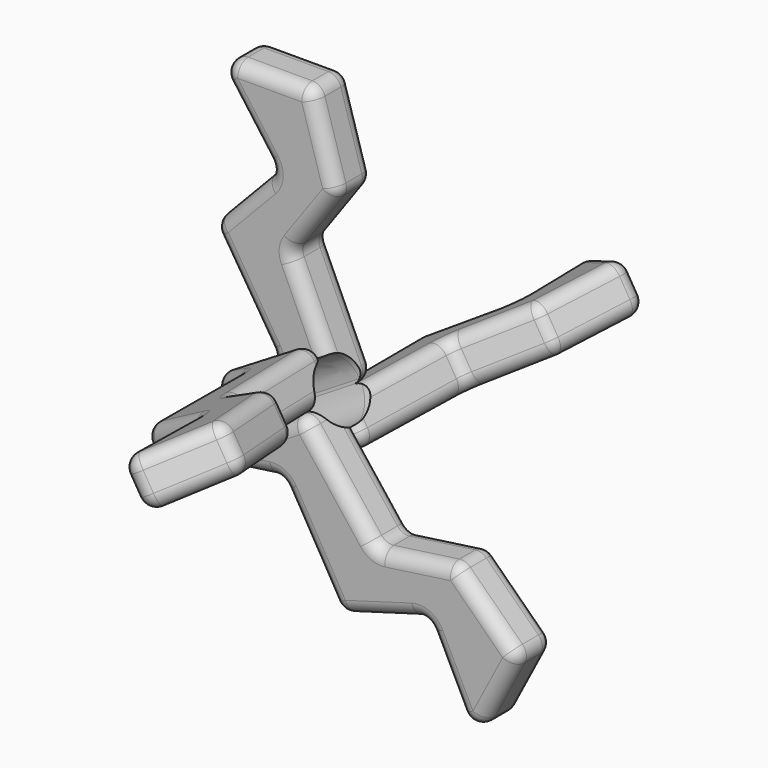
from build123d import *

# Parameters (mm, degrees)
F1_DEPTH      = 7
F2_COUNT      = 4
F3_R          = 2
F3_2_R        = 2
F3_3_R        = 2
F3_4_R        = 2
F5_DEPTH      = 25
F5_TAPER      = -3
F5_DEPTH_BACK = 25


with BuildPart() as f1:
    # F0 (on Front) → F1 (new body)
    with BuildSketch(Plane.XZ):
        Polygon((-32.9818986356, 12.8905009478), (-48.0949021876, 12.8905009478), (-38.6715009809, 0), (-48.0949021876, -9.8679000512), (-38.6715009809, -24.8031001538), (-48.0949021876, -37.9603020847), (-28.7146996707, -26.2254998088), (-36.1822992563, -9.8679000512), (-29.1147493518, 0), align=None)
    extrude(amount=F1_DEPTH)


with BuildPart() as f2_1:
    # F2: instance of F1
    add(f1.part.rotate(Axis((-38.4048009291, -7, -32.0929009467), (0.8554085664, 0, 0.517953844)), 1 * 360 / F2_COUNT))

    # F3#2
    f3_2_edges = [f2_1.edges().sort_by_distance(p)[0] for p in [
        (-30.527538, -7, -23.23157),
        (-28.744325, -24.860303, -22.151826),
        (-31.44877, -15.930151, -19.697768),
        (-27.823093, -15.930151, -25.685628),
        (-19.200738, -29.640724, -16.37314),
        (-16.31913, -42.670374, -14.628313),
        (-19.572772, -36.155549, -12.506796),
        (-15.947095, -36.155549, -18.494656),
        (-27.377674, -50.498213, -21.324313),
        (-23.66124, -46.584293, -14.982383),
        (-20.035563, -46.584293, -20.970243),
        (-38.404801, -7, -32.092901),
        (-24.972819, -42.544447, -23.959774),
        (-28.598496, -42.544447, -17.971914),
        (-33.640189, -32.810581, -21.024682),
        (-39.134846, -22.202189, -24.351723),
        (-45.358186, -10.186948, -28.119984),
        (-42.030478, -7, -26.105041),
        (-25.78537, -27.250514, -16.268553),
        (-30.014512, -32.810581, -27.012542),
        (-35.509169, -22.202189, -30.339583),
        (-41.73251, -10.186948, -34.107844),
        (-22.159693, -27.250514, -22.256413),
        (-37.46106, -31.030481, -27.42985),
        (-26.19364, -34.590681, -20.607375),
        (-37.182955, -13.373896, -27.261456),
        (-49.907741, -7, -34.966372),
    ]]
    fillet(f3_2_edges, radius=F3_2_R)


with BuildPart() as f2_2:
    # F2: instance of F1
    add(f1.part.rotate(Axis((-38.4048009291, -7, -32.0929009467), (0.8554085664, 0, 0.517953844)), 2 * 360 / F2_COUNT))

    # F3#3
    f3_3_edges = [f2_2.edges().sort_by_distance(p)[0] for p in [
        (-5.661049, -10.5, -38.734139),
        (3.969316, -10.5, -48.134986),
        (-0.845866, -14, -43.434563),
        (-0.845866, -7, -43.434563),
        (-3.034769, -10.5, -61.526986),
        (0.467273, -14, -54.830986),
        (0.467273, -7, -54.830986),
        (-28.7147, -10.5, -26.2255),
        (-17.680674, -10.5, -40.423612),
        (-23.197687, -14, -33.324556),
        (-23.197687, -7, -33.324556),
        (-6.562436, -7, -54.364798),
        (-16.645822, -7, -49.091134),
        (-27.635137, -7, -43.343665),
        (-40.081817, -7, -36.833987),
        (-38.404801, -7, -32.092901),
        (-11.670862, -7, -39.578876),
        (-48.094902, -10.5, -37.960302),
        (-23.201542, -10.5, -50.979659),
        (-40.081817, -14, -36.833987),
        (-16.645822, -14, -49.091134),
        (-27.635137, -14, -43.343665),
        (-38.404801, -14, -32.092901),
        (-32.068733, -10.5, -35.707671),
        (-10.090103, -10.5, -47.202609),
        (-11.670862, -14, -39.578876),
        (-6.562436, -14, -54.364798),
    ]]
    fillet(f3_3_edges, radius=F3_3_R)


with BuildPart() as f2_3:
    # F2: instance of F1
    add(f1.part.rotate(Axis((-38.4048009291, -7, -32.0929009467), (0.8554085664, 0, 0.517953844)), 3 * 360 / F2_COUNT))

    # F3#4
    f3_4_edges = [f2_3.edges().sort_by_distance(p)[0] for p in [
        (-26.901861, -7, -29.21943),
        (-25.118648, 10.860303, -28.139686),
        (-24.197416, 1.930151, -31.673488),
        (-27.823093, 1.930151, -25.685628),
        (-15.575061, 15.640724, -22.361),
        (-18.534016, 13.250514, -28.244273),
        (-22.159693, 13.250514, -22.256413),
        (-12.693453, 28.670374, -20.616173),
        (-12.321418, 22.155549, -24.482516),
        (-15.947095, 22.155549, -18.494656),
        (-23.751997, 36.498213, -27.312173),
        (-38.404801, -7, -32.092901),
        (-16.409887, 32.584293, -26.958103),
        (-21.347142, 28.544447, -29.947634),
        (-26.388835, 18.810581, -33.000402),
        (-31.883493, 8.202189, -36.327443),
        (-38.106833, -3.813052, -40.095704),
        (-34.779124, -7, -38.080761),
        (-46.282064, -7, -40.954232),
        (-33.557278, -0.626104, -33.249316),
        (-41.73251, -3.813052, -34.107844),
        (-33.835384, 17.030481, -33.41771),
        (-35.509169, 8.202189, -30.339583),
        (-30.014512, 18.810581, -27.012542),
        (-24.972819, 28.544447, -23.959774),
        (-20.035563, 32.584293, -20.970243),
        (-22.567963, 20.590681, -26.595235),
    ]]
    fillet(f3_4_edges, radius=F3_4_R)


with BuildPart() as f1_1:
    add(f1.part)

    # F3
    f3_edges = [f1_1.edges().sort_by_distance(p)[0] for p in [
        (-32.981899, -3.5, 12.890501),
        (-48.094902, -3.5, 12.890501),
        (-40.5384, 0, 12.890501),
        (-40.5384, -7, 12.890501),
        (-29.114749, -3.5, 0),
        (-31.048324, 0, 6.44525),
        (-31.048324, -7, 6.44525),
        (-36.182299, -3.5, -9.8679),
        (-32.648524, 0, -4.93395),
        (-32.648524, -7, -4.93395),
        (-38.404801, -7, -32.092901),
        (-43.383202, 0, 6.44525),
        (-43.383202, 0, -4.93395),
        (-43.383202, 0, -17.3355),
        (-43.383202, 0, -31.381701),
        (-38.404801, 0, -32.092901),
        (-32.448499, 0, -18.0467),
        (-43.383202, -7, 6.44525),
        (-43.383202, -7, -4.93395),
        (-43.383202, -7, -17.3355),
        (-43.383202, -7, -31.381701),
        (-32.448499, -7, -18.0467),
        (-48.094902, -3.5, -37.960302),
        (-48.094902, -3.5, -9.8679),
        (-38.671501, -3.5, -24.8031),
        (-28.7147, -3.5, -26.2255),
        (-38.671501, -3.5, 0),
    ]]
    fillet(f3_edges, radius=F3_R)


with BuildPart() as f5_tool:
    # F4 (on face) → F5 (new body, two sides)
    with BuildSketch(Plane(origin=(-32.8816954209, -4.4866418183, -19.9100186866), x_dir=(-0.099169038, 0.9932571783, -0.0600473113), z_dir=(0.849640699, 0.1159317803, 0.5144613736))) as f5_sk:
        with BuildLine():
            ThreePointArc((-6.5910060612, -5.5606281197), (-3.195242571, -11.5567634184), (2.0957587364, -7.1419980377))
            ThreePointArc((2.0957587364, -7.1419980377), (0.0089472801, -3.3507441667), (-4.3105599582, -3.0857060806))
            Line((-4.3105599582, -3.0857060806), (-4.3105599582, -5.5606281197))
            Line((-4.3105599582, -5.5606281197), (-6.5910060612, -5.5606281197))
        make_face()
        with BuildLine():
            Line((-4.3105599582, -5.5606281197), (-4.3105599582, -3.0857060806))
            ThreePointArc((-4.3105599582, -3.0857060806), (-5.6915837189, -4.1012881762), (-6.5910060612, -5.5606281197))
            Line((-6.5910060612, -5.5606281197), (-4.3105599582, -5.5606281197))
        make_face()
    extrude(amount=-F5_DEPTH, taper=F5_TAPER)
    extrude(f5_sk.sketch, amount=F5_DEPTH_BACK)


with BuildPart() as f1_2:
    add(f1_1.part)

    # F5: cut by f5_tool
    add(f5_tool.part, mode=Mode.SUBTRACT)


with BuildPart() as f2_1_1:
    add(f2_1.part)

    # F5: cut by f5_tool
    add(f5_tool.part, mode=Mode.SUBTRACT)


with BuildPart() as f2_2_1:
    add(f2_2.part)

    # F5: cut by f5_tool
    add(f5_tool.part, mode=Mode.SUBTRACT)


with BuildPart() as f2_3_1:
    add(f2_3.part)

    # F5: cut by f5_tool
    add(f5_tool.part, mode=Mode.SUBTRACT)


solid = Compound([f1_2.part, f2_1_1.part, f2_2_1.part, f2_3_1.part])
